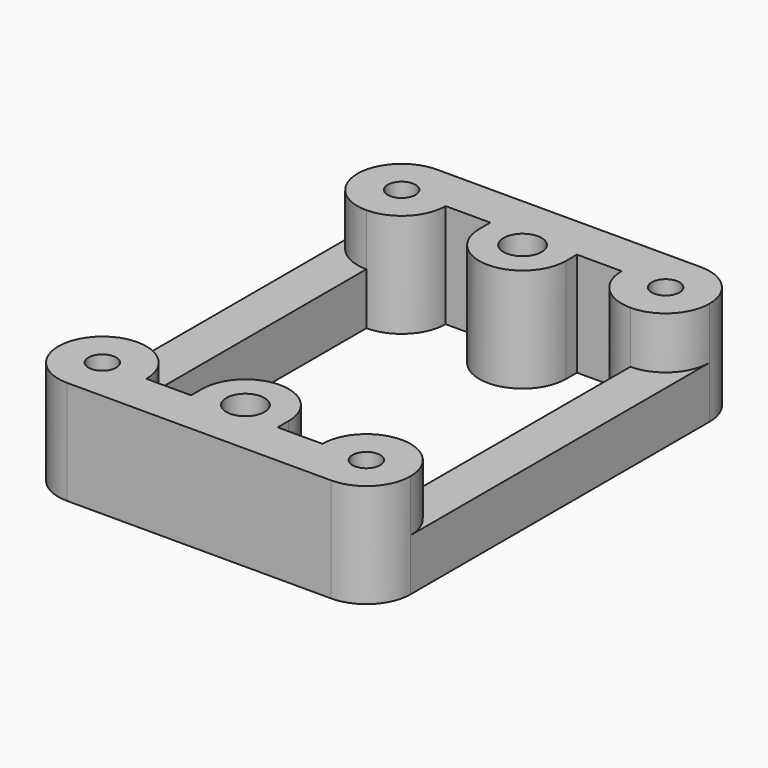
from build123d import *

# Parameters (mm, degrees)
SKETCH_R        = 0.8
PAD_DEPTH       = 6
POCKET_DEPTH    = 6.001
SKETCH002_W     = 22
SKETCH002_H     = 16.5
POCKET001_DEPTH = 3
FILLET_R        = 2.539
PAD001_DEPTH    = 6
SKETCH004_R     = 1.1
POCKET002_DEPTH = 6.001


with BuildPart() as part:
    # Sketch → Pad (new body)
    with BuildSketch(Plane.XY):
        with BuildLine():
            Line((-7.62, 13.335), (7.62, 13.335))
            ThreePointArc((10.16, 10.795), (9.416051, 12.591051), (7.62, 13.335))
            Line((10.16, 10.795), (10.16, -10.795))
            ThreePointArc((7.62, -13.335), (9.416051, -12.591051), (10.16, -10.795))
            Line((7.62, -13.335), (-7.62, -13.335))
            ThreePointArc((-10.16, -10.795), (-9.416051, -12.591051), (-7.62, -13.335))
            Line((-10.16, -10.795), (-10.16, 10.795))
            ThreePointArc((-7.62, 13.335), (-9.416051, 12.591051), (-10.16, 10.795))
        make_face()
        with Locations((-7.62, 10.795)):
            Circle(SKETCH_R, mode=Mode.SUBTRACT)
        with Locations((-7.62, -10.795)):
            Circle(SKETCH_R, mode=Mode.SUBTRACT)
        with Locations((7.62, -10.795)):
            Circle(SKETCH_R, mode=Mode.SUBTRACT)
        with Locations((7.62, 10.795)):
            Circle(SKETCH_R, mode=Mode.SUBTRACT)
    extrude(amount=PAD_DEPTH)

    # Sketch001 (on Face14 of Pad) → Pocket (cut, through all)
    with BuildSketch(Plane.XY.offset(6)):
        with BuildLine():
            Line((-5.08, 10.795), (5.08, 10.795))
            ThreePointArc((5.08, 10.795), (5.823949, 8.998949), (7.62, 8.255))
            Line((7.62, 8.255), (7.62, -8.255))
            ThreePointArc((7.62, -8.255), (5.823949, -8.998949), (5.08, -10.795))
            Line((5.08, -10.795), (-5.08, -10.795))
            ThreePointArc((-5.08, -10.795), (-5.823949, -8.998949), (-7.62, -8.255))
            Line((-7.62, -8.255), (-7.62, 8.255))
            ThreePointArc((-7.62, 8.255), (-5.823949, 8.998949), (-5.08, 10.795))
        make_face()
    extrude(amount=-POCKET_DEPTH, mode=Mode.SUBTRACT)

    # Sketch002 (on Face5 of Pocket) → Pocket001 (cut)
    with BuildSketch(Plane.XY.offset(6)):
        Rectangle(SKETCH002_W, SKETCH002_H)
    extrude(amount=-POCKET001_DEPTH, mode=Mode.SUBTRACT)

    # Fillet
    fillet_edges = [part.edges().sort_by_distance(p)[0] for p in [
        (-10.16, 8.25, 4.5),
        (-10.16, -8.25, 4.5),
        (10.16, 8.25, 4.5),
        (10.16, -8.25, 4.5),
    ]]
    fillet(fillet_edges, radius=FILLET_R)

    # Sketch003 (on Face6 of Fillet) → Pad001 (join)
    with BuildSketch(Plane(origin=(0, 0, 0), x_dir=(1, 0, 0), z_dir=(0, 0, -1))):
        with BuildLine():
            Line((-2.5, 10.8), (2.5, 10.8))
            Line((2.5, 10.8), (2.5, 10))
            ThreePointArc((-2.5, 10), (0, 7.5), (2.5, 10))
            Line((-2.5, 10), (-2.5, 10.8))
        make_face()
        with BuildLine():
            Line((-2.5, -10.8), (2.5, -10.8))
            Line((2.5, -10.8), (2.5, -10))
            ThreePointArc((2.5, -10), (0, -7.5), (-2.5, -10))
            Line((-2.5, -10), (-2.5, -10.8))
        make_face()
    extrude(amount=-PAD001_DEPTH)

    # Sketch004 (on Face44 of Pad001) → Pocket002 (cut, through all)
    with BuildSketch(Plane(origin=(0, 0, 0), x_dir=(1, 0, 0), z_dir=(0, 0, -1))):
        with Locations((0, 10)):
            Circle(SKETCH004_R)
        with Locations((0, -10)):
            Circle(SKETCH004_R)
    extrude(amount=-POCKET002_DEPTH, mode=Mode.SUBTRACT)


solid = part.part
